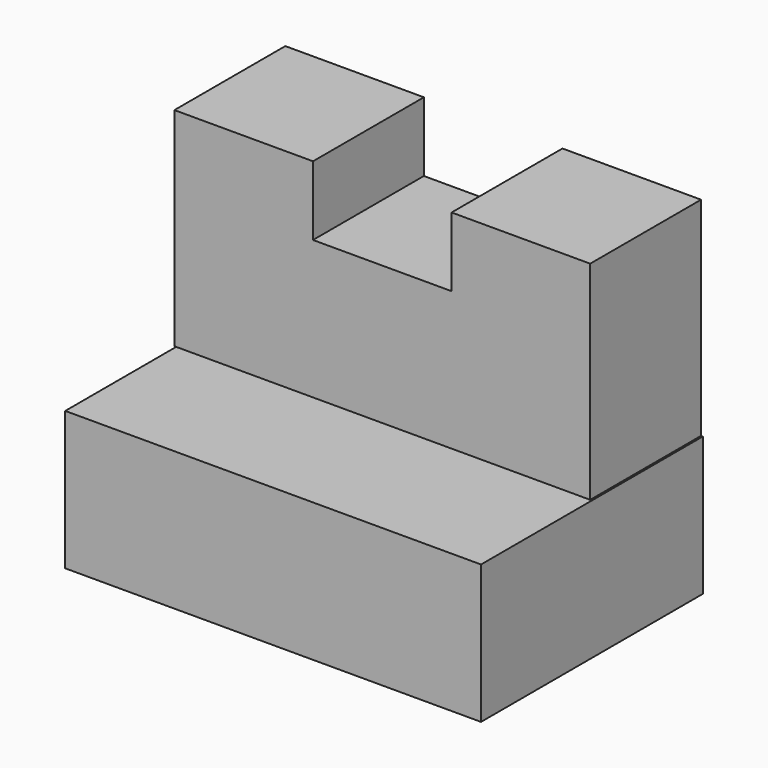
from build123d import *

# Parameters (mm, degrees)
F1_DEPTH = 25.4
F3_DEPTH = 12.7


with BuildPart() as f1:
    # F0 (on Front) → F1 (new body)
    with BuildSketch(Plane.XZ):
        Polygon((-19.05, 0), (0, 0), (19.05, 0), (19.05, 12.7), (-19.05, 12.7), align=None)
    extrude(amount=F1_DEPTH)


with BuildPart() as f3:
    # F2 (on Front) → F3 (new body)
    with BuildSketch(Plane.XZ):
        Polygon((-19.20614, 31.754119), (-19.20614, 12.704119), (18.89386, 12.704119), (18.89386, 31.754119), (6.19386, 31.754119), (6.19386, 25.404119), (-6.50614, 25.404119), (-6.50614, 31.754119), align=None)
    extrude(amount=F3_DEPTH)


solid = Compound([f1.part, f3.part])
